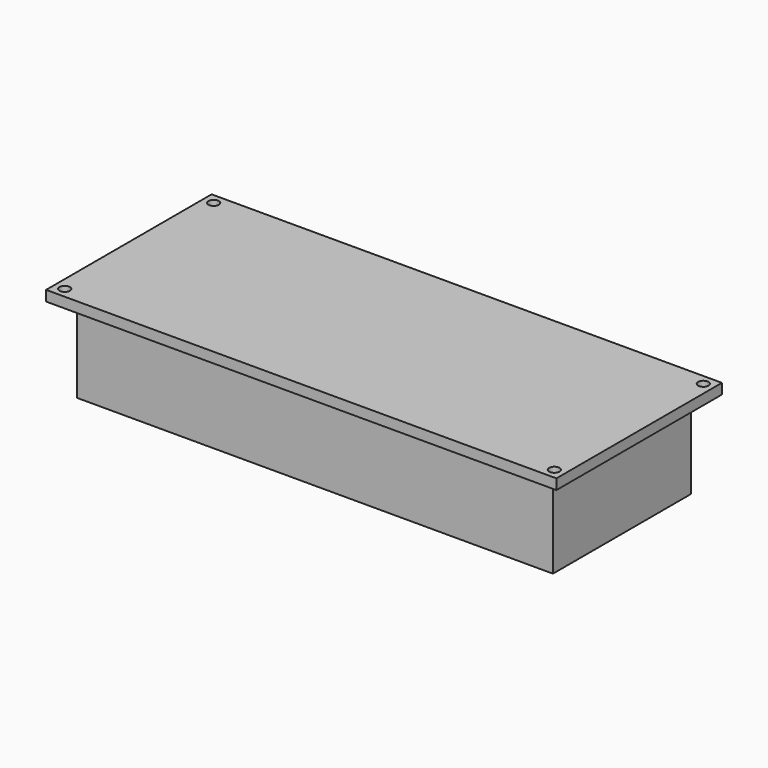
from build123d import *

# Parameters (mm, degrees)
SKETCH_W                   = 148
SKETCH_H                   = 60
PAD_DEPTH                  = 3
SKETCH002_W                = 138
SKETCH002_H                = 50
SKETCH002_W_2              = 134
SKETCH002_H_2              = 46
PAD001_DEPTH               = 25
SKETCH003_R                = 1.5
POCKET_DEPTH               = 327.272491
PAD002_DEPTH               = 23
SKETCH005_R                = 2.4
POCKET001_DEPTH            = 10
SKETCH003_MIRRORED_2_R     = 1.5
POCKET_MIRRORED_2_DEPTH    = 327.272491
PAD002_MIRRORED_2_DEPTH    = 23
SKETCH005_MIRRORED_2_R     = 2.4
POCKET001_MIRRORED_2_DEPTH = 10


with BuildPart() as part:
    # Sketch → Pad (new body)
    with BuildSketch(Plane.XY):
        Rectangle(SKETCH_W, SKETCH_H)
    extrude(amount=PAD_DEPTH)

    # Sketch002 (on Face5 of Pad) → Pad001 (join)
    with BuildSketch(Plane(origin=(0, 0, 0), x_dir=(1, 0, 0), z_dir=(0, 0, -1))):
        Rectangle(SKETCH002_W, SKETCH002_H)
        Rectangle(SKETCH002_W_2, SKETCH002_H_2, mode=Mode.SUBTRACT)
    extrude(amount=PAD001_DEPTH)

    # Sketch003 (on Face4 of Pad001) → Pocket (cut, through all)
    with BuildSketch(Plane(origin=(0, 0, 0), x_dir=(1, 0, 0), z_dir=(0, 0, -1))):
        with Locations((-71, 27)):
            Circle(SKETCH003_R)
    pocket = extrude(amount=-POCKET_DEPTH, mode=Mode.SUBTRACT)

    # Sketch004 (on Face17 of Pocket) → Pad002 (join)
    with BuildSketch(Plane(origin=(0, 0, 0), x_dir=(1, 0, 0), z_dir=(0, 0, -1))):
        with BuildLine():
            ThreePointArc((-67, 15), (-61.343146, 17.343146), (-59, 23))
            Line((-67, 23), (-59, 23))
            Line((-67, 23), (-67, 15))
        make_face()
    pad002 = extrude(amount=PAD002_DEPTH)

    # Sketch005 (on Face17 of Pad002) → Pocket001 (cut)
    with BuildSketch(Plane(origin=(0, 0, -23), x_dir=(1, 0, 0), z_dir=(0, 0, -1))):
        with Locations((-64, 20)):
            Circle(SKETCH005_R)
    pocket001 = extrude(amount=-POCKET001_DEPTH, mode=Mode.SUBTRACT)

    # Sketch003 Mirrored 2 → Pocket Mirrored 2 (cut, through all)
    with BuildSketch(Plane(origin=(0, 0, 0), x_dir=(-1, 0, 0), z_dir=(0, 0, 1))):
        with Locations((-71, 27)):
            Circle(SKETCH003_MIRRORED_2_R)
    pocket_mirrored_2 = extrude(amount=POCKET_MIRRORED_2_DEPTH, mode=Mode.SUBTRACT)

    # Sketch004 Mirrored 2 → Pad002 Mirrored 2 (add)
    with BuildSketch(Plane(origin=(0, 0, 0), x_dir=(-1, 0, 0), z_dir=(0, 0, 1))):
        with BuildLine():
            ThreePointArc((-67, 15), (-61.343146, 17.343146), (-59, 23))
            Line((-67, 23), (-59, 23))
            Line((-67, 23), (-67, 15))
        make_face()
    pad002_mirrored_2 = extrude(amount=-PAD002_MIRRORED_2_DEPTH)

    # Sketch005 Mirrored 2 → Pocket001 Mirrored 2 (cut)
    with BuildSketch(Plane(origin=(0, 0, -23), x_dir=(-1, 0, 0), z_dir=(0, 0, 1))):
        with Locations((-64, 20)):
            Circle(SKETCH005_MIRRORED_2_R)
    pocket001_mirrored_2 = extrude(amount=POCKET001_MIRRORED_2_DEPTH, mode=Mode.SUBTRACT)

    # Mirrored001: Pocket, Pad002, Pocket001, Pocket Mirrored 2, Pad002 Mirrored 2, Pocket001 Mirrored 2 across Sketch003 H_Axis
    add(pocket.mirror(Plane(origin=(0, 0, 0), x_dir=(0, 0, -1), z_dir=(0, -1, 0))), mode=Mode.SUBTRACT)
    add(pad002.mirror(Plane(origin=(0, 0, 0), x_dir=(0, 0, -1), z_dir=(0, -1, 0))))
    add(pocket001.mirror(Plane(origin=(0, 0, 0), x_dir=(0, 0, -1), z_dir=(0, -1, 0))), mode=Mode.SUBTRACT)
    add(pocket_mirrored_2.mirror(Plane(origin=(0, 0, 0), x_dir=(0, 0, -1), z_dir=(0, -1, 0))), mode=Mode.SUBTRACT)
    add(pad002_mirrored_2.mirror(Plane(origin=(0, 0, 0), x_dir=(0, 0, -1), z_dir=(0, -1, 0))))
    add(pocket001_mirrored_2.mirror(Plane(origin=(0, 0, 0), x_dir=(0, 0, -1), z_dir=(0, -1, 0))), mode=Mode.SUBTRACT)


solid = part.part
